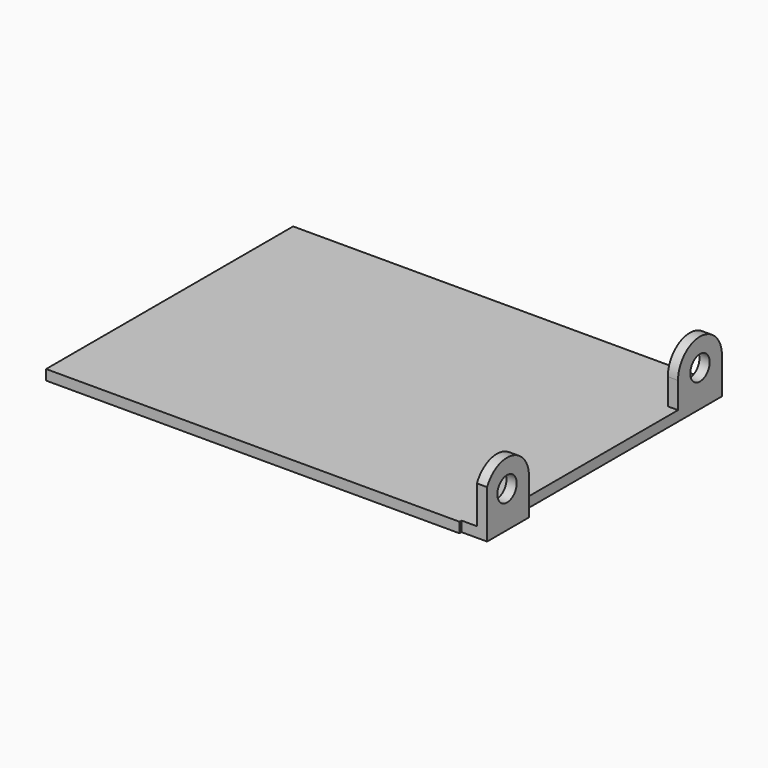
from build123d import *

# Parameters (mm, degrees)
F0_W     = 82
F0_H     = 60.5
F1_DEPTH = 2
F2_R     = 2.375
F3_DEPTH = 2
F4_DEPTH = 4
F5_DEPTH = 2
F6_W     = 2
F6_H     = 10.75
F7_DEPTH = 10.501
F8_W     = 0.5
F8_H     = 10
F9_DEPTH = 5


with BuildPart() as f1:
    # F0 (on Top) → F1 (new body)
    with BuildSketch(Plane.XY):
        Rectangle(F0_W, F0_H)
    extrude(amount=F1_DEPTH)

    # F2 (on face) → F3 (join)
    with BuildSketch(Plane.YZ.offset(41)):
        Polygon((19.5, 2), (-19.5, 2), (-30.25, 2), (-30.25, 0), (30.25, 0), (30.25, 2), align=None)
        with BuildLine():
            Line((19.5, 7.125), (19.5, 2))
            Line((19.5, 2), (30.25, 2))
            Line((30.25, 2), (30.25, 7.125))
            ThreePointArc((30.25, 7.125), (24.875, 12.5), (19.5, 7.125))
        make_face()
        with Locations((24.875, 7.125)):
            Circle(F2_R, mode=Mode.SUBTRACT)
    extrude(amount=F3_DEPTH)

    # F2 (on face) → F4 (join)
    with BuildSketch(Plane.YZ.offset(41)):
        with BuildLine():
            Line((-30.25, 2), (-19.5, 2))
            Line((-19.5, 2), (-19.5, 7.125))
            ThreePointArc((-19.5, 7.125), (-24.875, 12.5), (-30.25, 7.125))
            Line((-30.25, 7.125), (-30.25, 2))
        make_face()
        with Locations((-24.875, 7.125)):
            Circle(F2_R, mode=Mode.SUBTRACT)
    extrude(amount=F4_DEPTH)

    # F5 (add): a face of the model
    f5_faces = [f1.faces().sort_by_distance(p)[0] for p in [
        (44, -24.875, 2),
    ]]
    extrude(f5_faces, amount=F5_DEPTH)

    # F6 (on face) → F7 (cut, through all)
    with BuildSketch(Plane.XY.offset(2)):
        with Locations((42, -24.875)):
            Rectangle(F6_W, F6_H)
    extrude(amount=F7_DEPTH, mode=Mode.SUBTRACT)

    # F8 (on face) → F9 (cut)
    with BuildSketch(Plane.YZ.offset(45)):
        with Locations((-30, 5)):
            Rectangle(F8_W, F8_H)
    extrude(amount=-F9_DEPTH, mode=Mode.SUBTRACT)


solid = f1.part
